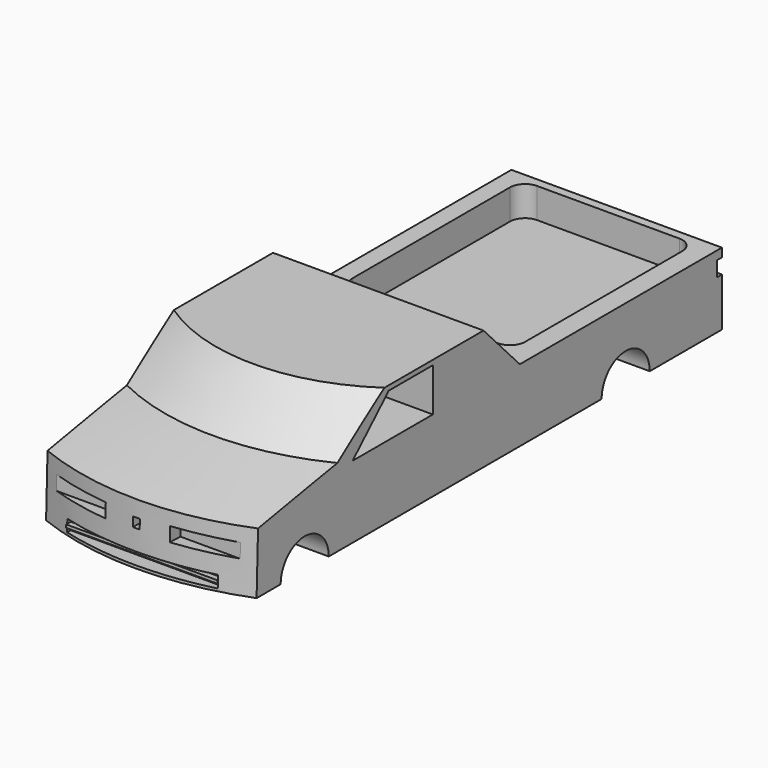
from build123d import *

# Parameters (mm, degrees)
F1_DEPTH       = 44.45
F3_ANGLE_BACK  = 90
F3_ANGLE       = 180
F5_DEPTH       = 12.7
F7_W           = 19.1765794656
F7_H           = 20.32
F8_DEPTH       = 38.1
F9_W           = 68.8219781561
F9_H           = 15.6805519946
F10_DEPTH      = 6.35
F12_DEPTH      = 2.54
F14_DEPTH      = 44.451
F14_DEPTH_BACK = 44.451
F15_W          = 4.3561459895
F15_H          = 5.5247349744
F16_DEPTH      = 0.254
F17_W          = 30.8628306508
F17_H          = 5.9643723071
F17_W_2        = 2.8725753073
F17_H_2        = 3.9488319308
F18_DEPTH      = 6.35
F19_ANGLE_BACK = 70
F19_ANGLE      = 140
F21_DEPTH      = 44.4510001
F21_DEPTH_BACK = 44.4510001
F22_W          = 63.8522766531
F22_H          = 1.2669962529
F23_DEPTH      = 2.54


with BuildPart() as f1:
    # F0 (on Right) → F1 (new body, symmetric)
    with BuildSketch(Plane.YZ):
        Polygon((-146.6177896183, -5.0897085369), (-147.32, -30.48), (106.68, -30.48), (106.68, 0), (0, 0), (-19.1765794656, 20.32), (-85.2165794656, 20.32), (-106.68, 2.4324294841), align=None)
    extrude(amount=F1_DEPTH, both=True)

    # F2 (on Right) → F3 (revolve, cut)
    with BuildSketch(Plane.YZ, mode=Mode.PRIVATE) as f3_sk:
        Polygon((-106.68, 2.4324294841), (-62.3583516914, 39.37), (-179.07, 39.37), (-179.07, -11.2019648213), align=None)
    revolve(f3_sk.sketch.rotate(Axis((0, -6.35, 51.4768799767), (0, 0, -1)), -F3_ANGLE_BACK), axis=Axis((0, -6.35, 51.4768799767), (0, 0, -1)), revolution_arc=F3_ANGLE, mode=Mode.SUBTRACT)

    # F4 (on face) → F5 (cut)
    with BuildSketch(Plane.XY):
        with BuildLine():
            Line((-30.6413764298, 7.2046327405), (29.4640543103, 7.2046327405))
            ThreePointArc((29.4640543103, 7.2046327405), (33.9541823709, 9.0645046799), (35.8140543103, 13.5546327405))
            Line((35.8140543103, 13.5546327405), (35.8140543103, 96.6237889767))
            ThreePointArc((35.8140543103, 96.6237889767), (33.9541823709, 101.1139170372), (29.4640543103, 102.9737889767))
            Line((29.4640543103, 102.9737889767), (-30.6413764298, 102.9737889767))
            ThreePointArc((-30.6413764298, 102.9737889767), (-35.1315044903, 101.1139170372), (-36.9913764298, 96.6237889767))
            Line((-36.9913764298, 96.6237889767), (-36.9913764298, 13.5546327405))
            ThreePointArc((-36.9913764298, 13.5546327405), (-35.1315044903, 9.0645046799), (-30.6413764298, 7.2046327405))
        make_face()
    extrude(amount=-F5_DEPTH, mode=Mode.SUBTRACT)

    # F7 (on Right) → F8 (cut, symmetric)
    with BuildSketch(Plane.YZ):
        with Locations((-9.5882897328, 10.16)):
            Rectangle(F7_W, F7_H)
    extrude(amount=F8_DEPTH, both=True, mode=Mode.SUBTRACT)

    # F9 (on face) → F10 (cut)
    with BuildSketch(Plane(origin=(0, -19.1765794656, 0), x_dir=(-1, 0, 0), z_dir=(0, 1, 0))):
        with Locations((0.006010922, 9.7910461482)):
            Rectangle(F9_W, F9_H)
    extrude(amount=-F10_DEPTH, mode=Mode.SUBTRACT)

    # F11 (on face) → F12 (cut)
    with BuildSketch(Plane(origin=(0, 106.68, 0), x_dir=(-1, 0, 0), z_dir=(0, 1, 0))):
        with BuildLine():
            Line((-21.59, -3.6485542078), (-44.45, -3.6485542078))
            Line((-44.45, -3.6485542078), (-44.45, -9.9976139794))
            Line((-44.45, -9.9976139794), (-21.59, -9.9976139794))
            ThreePointArc((-21.59, -9.9976139794), (-21.0511846327, -9.7744293467), (-20.828, -9.2356139794))
            Line((-20.828, -9.2356139794), (-20.828, -4.4105542078))
            ThreePointArc((-20.828, -4.4105542078), (-21.0511846327, -3.8717388405), (-21.59, -3.6485542078))
        make_face()
        with BuildLine():
            Line((44.45, -9.9976139794), (44.45, -3.6485542078))
            Line((44.45, -3.6485542078), (21.59, -3.6485542078))
            ThreePointArc((21.59, -3.6485542078), (21.0511846327, -3.8717388405), (20.828, -4.4105542078))
            Line((20.828, -4.4105542078), (20.828, -9.2356139794))
            ThreePointArc((20.828, -9.2356139794), (21.0511846327, -9.7744293467), (21.59, -9.9976139794))
            Line((21.59, -9.9976139794), (44.45, -9.9976139794))
        make_face()
    extrude(amount=-F12_DEPTH, mode=Mode.SUBTRACT)

    # F13 (on Right) → F14 (cut, two sides)
    with BuildSketch(Plane.YZ) as f14_sk:
        Polygon((-88.2660076022, 0), (-45.9169372916, 0), (-45.9169372916, 18.3047242463), (-69.1584387047, 18.3047242463), align=None)
    extrude(amount=-F14_DEPTH, mode=Mode.SUBTRACT)
    extrude(f14_sk.sketch, amount=F14_DEPTH_BACK, mode=Mode.SUBTRACT)

    # F15 (on face) → F16 (cut)
    with BuildSketch(Plane(origin=(0, 106.68, 0), x_dir=(-1, 0, 0), z_dir=(0, 1, 0))):
        with Locations((0.0063270053, -7.1436325128)):
            Rectangle(F15_W, F15_H)
    extrude(amount=-F16_DEPTH, mode=Mode.SUBTRACT)

    # F17 (on face) → F18 (cut)
    with BuildSketch(Plane(origin=(0, -146.3650721201, 4.0479674412), x_dir=(1, 0, 0), z_dir=(0, -0.9996177741, 0.027646078))):
        with Locations((-29.0185846746, -17.8666524589)):
            Rectangle(F17_W, F17_H)
        with Locations((29.0185846746, -17.8666524589)):
            Rectangle(F17_W, F17_H)
        with Locations((0, -17.8110701963)):
            Rectangle(F17_W_2, F17_H_2)
        Polygon((-32.4309132993, -33.338483423), (31.4213633537, -33.338483423), (31.4213633537, -31.7079313099), (31.4213633537, -30.8274384588), (31.4213633537, -28.3163934946), (-32.4309132993, -28.3163934946), (-32.4309132993, -30.8274384588), (-32.4309132993, -31.7079313099), align=None)
    extrude(amount=-F18_DEPTH, mode=Mode.SUBTRACT)

    # F6 (on Right) → F19 (revolve, cut)
    with BuildSketch(Plane.YZ, mode=Mode.PRIVATE) as f19_sk:
        Polygon((-181.2299340963, -30.48), (-147.32, -30.48), (-146.1423057277, 12.1026812121), (-181.2299340963, 12.1026812121), align=None)
    revolve(f19_sk.sketch.rotate(Axis((0, -25.1088291407, 39.4888808951), (0, 0, -1)), -F19_ANGLE_BACK), axis=Axis((0, -25.1088291407, 39.4888808951), (0, 0, -1)), revolution_arc=F19_ANGLE, mode=Mode.SUBTRACT)

    # F20 (on Right) → F21 (cut, two sides)
    with BuildSketch(Plane.YZ) as f21_sk:
        with BuildLine():
            Line((-126.2498049921, -30.48), (-100.8498049921, -30.48))
            ThreePointArc((-100.8498049921, -30.48), (-113.5498049921, -17.78), (-126.2498049921, -30.48))
        make_face()
        with BuildLine():
            Line((43.18, -30.48), (68.58, -30.48))
            ThreePointArc((68.58, -30.48), (55.88, -17.78), (43.18, -30.48))
        make_face()
    extrude(amount=F21_DEPTH, mode=Mode.SUBTRACT)
    extrude(f21_sk.sketch, amount=-F21_DEPTH_BACK, mode=Mode.SUBTRACT)

    # F22 (on face) → F23 (join)
    with BuildSketch(Plane(origin=(0, -140.0174992543, 3.8724148458), x_dir=(1, 0, 0), z_dir=(0, -0.9996177741, 0.027646078))):
        with Locations((-0.5047749728, -30.8253852965)):
            Rectangle(F22_W, F22_H)
    extrude(amount=F23_DEPTH)


solid = f1.part
